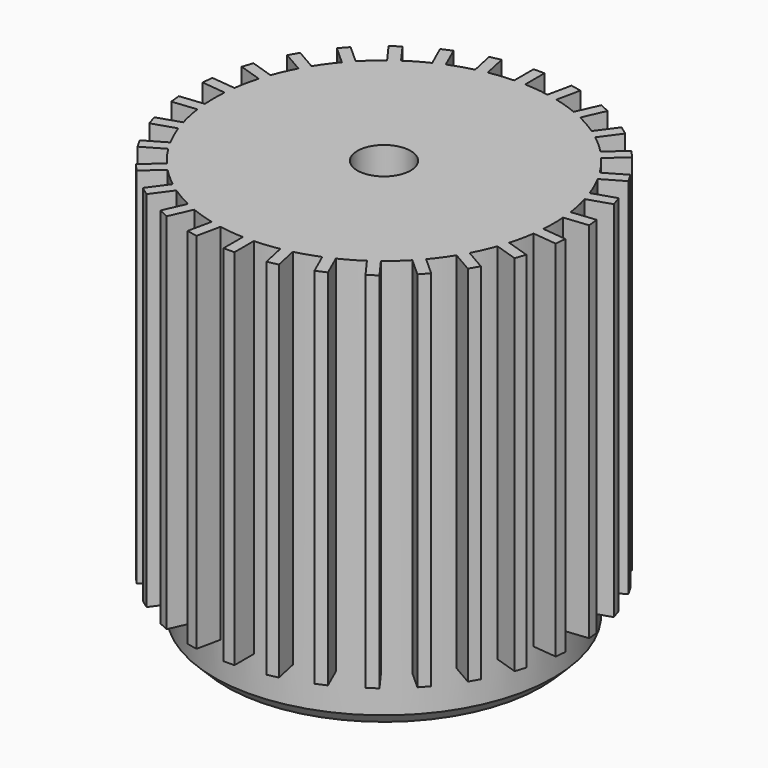
from build123d import *

# Parameters (mm, degrees)
F0_R      = 7
F1_DEPTH  = 15
F3_DEPTH  = 15
F4_COUNT  = 30
F6_R      = 7
F7_DEPTH  = 2
F8_SIZE   = 0.5
F9_R      = 3.25
F10_DEPTH = 0.6
F12_R     = 1.1
F13_DEPTH = 25


with BuildPart() as f1:
    # F0 (on Top) → F1 (new body)
    with BuildSketch(Plane.XY):
        Circle(F0_R)
    extrude(amount=F1_DEPTH)


with BuildPart() as f3:
    # F2 (on Top) → F3 (new body)
    with BuildSketch(Plane.XY):
        with BuildLine():
            ThreePointArc((-0.225, 6.996383), (0, 7), (0.225, 6.996383))
            Line((0.225, 6.996383), (0.225, 7.996383))
            Line((0.225, 7.996383), (-0.225, 7.996383))
            Line((-0.225, 7.996383), (-0.225, 6.996383))
        make_face()
    extrude(amount=F3_DEPTH)


with BuildPart() as f4_1:
    # F4: instance of F3
    add(f3.part.rotate(Axis((0, 0, 15), (0, 0, 1)), 1 * 360 / F4_COUNT))


with BuildPart() as f4_2:
    # F4: instance of F3
    add(f3.part.rotate(Axis((0, 0, 15), (0, 0, 1)), 2 * 360 / F4_COUNT))


with BuildPart() as f4_3:
    # F4: instance of F3
    add(f3.part.rotate(Axis((0, 0, 15), (0, 0, 1)), 3 * 360 / F4_COUNT))


with BuildPart() as f4_4:
    # F4: instance of F3
    add(f3.part.rotate(Axis((0, 0, 15), (0, 0, 1)), 4 * 360 / F4_COUNT))


with BuildPart() as f4_5:
    # F4: instance of F3
    add(f3.part.rotate(Axis((0, 0, 15), (0, 0, 1)), 5 * 360 / F4_COUNT))


with BuildPart() as f4_6:
    # F4: instance of F3
    add(f3.part.rotate(Axis((0, 0, 15), (0, 0, 1)), 6 * 360 / F4_COUNT))


with BuildPart() as f4_7:
    # F4: instance of F3
    add(f3.part.rotate(Axis((0, 0, 15), (0, 0, 1)), 7 * 360 / F4_COUNT))


with BuildPart() as f4_8:
    # F4: instance of F3
    add(f3.part.rotate(Axis((0, 0, 15), (0, 0, 1)), 8 * 360 / F4_COUNT))


with BuildPart() as f4_9:
    # F4: instance of F3
    add(f3.part.rotate(Axis((0, 0, 15), (0, 0, 1)), 9 * 360 / F4_COUNT))


with BuildPart() as f4_10:
    # F4: instance of F3
    add(f3.part.rotate(Axis((0, 0, 15), (0, 0, 1)), 10 * 360 / F4_COUNT))


with BuildPart() as f4_11:
    # F4: instance of F3
    add(f3.part.rotate(Axis((0, 0, 15), (0, 0, 1)), 11 * 360 / F4_COUNT))


with BuildPart() as f4_12:
    # F4: instance of F3
    add(f3.part.rotate(Axis((0, 0, 15), (0, 0, 1)), 12 * 360 / F4_COUNT))


with BuildPart() as f4_13:
    # F4: instance of F3
    add(f3.part.rotate(Axis((0, 0, 15), (0, 0, 1)), 13 * 360 / F4_COUNT))


with BuildPart() as f4_14:
    # F4: instance of F3
    add(f3.part.rotate(Axis((0, 0, 15), (0, 0, 1)), 14 * 360 / F4_COUNT))


with BuildPart() as f4_15:
    # F4: instance of F3
    add(f3.part.rotate(Axis((0, 0, 15), (0, 0, 1)), 15 * 360 / F4_COUNT))


with BuildPart() as f4_16:
    # F4: instance of F3
    add(f3.part.rotate(Axis((0, 0, 15), (0, 0, 1)), 16 * 360 / F4_COUNT))


with BuildPart() as f4_17:
    # F4: instance of F3
    add(f3.part.rotate(Axis((0, 0, 15), (0, 0, 1)), 17 * 360 / F4_COUNT))


with BuildPart() as f4_18:
    # F4: instance of F3
    add(f3.part.rotate(Axis((0, 0, 15), (0, 0, 1)), 18 * 360 / F4_COUNT))


with BuildPart() as f4_19:
    # F4: instance of F3
    add(f3.part.rotate(Axis((0, 0, 15), (0, 0, 1)), 19 * 360 / F4_COUNT))


with BuildPart() as f4_20:
    # F4: instance of F3
    add(f3.part.rotate(Axis((0, 0, 15), (0, 0, 1)), 20 * 360 / F4_COUNT))


with BuildPart() as f4_21:
    # F4: instance of F3
    add(f3.part.rotate(Axis((0, 0, 15), (0, 0, 1)), 21 * 360 / F4_COUNT))


with BuildPart() as f4_22:
    # F4: instance of F3
    add(f3.part.rotate(Axis((0, 0, 15), (0, 0, 1)), 22 * 360 / F4_COUNT))


with BuildPart() as f4_23:
    # F4: instance of F3
    add(f3.part.rotate(Axis((0, 0, 15), (0, 0, 1)), 23 * 360 / F4_COUNT))


with BuildPart() as f4_24:
    # F4: instance of F3
    add(f3.part.rotate(Axis((0, 0, 15), (0, 0, 1)), 24 * 360 / F4_COUNT))


with BuildPart() as f4_25:
    # F4: instance of F3
    add(f3.part.rotate(Axis((0, 0, 15), (0, 0, 1)), 25 * 360 / F4_COUNT))


with BuildPart() as f4_26:
    # F4: instance of F3
    add(f3.part.rotate(Axis((0, 0, 15), (0, 0, 1)), 26 * 360 / F4_COUNT))


with BuildPart() as f4_27:
    # F4: instance of F3
    add(f3.part.rotate(Axis((0, 0, 15), (0, 0, 1)), 27 * 360 / F4_COUNT))


with BuildPart() as f4_28:
    # F4: instance of F3
    add(f3.part.rotate(Axis((0, 0, 15), (0, 0, 1)), 28 * 360 / F4_COUNT))


with BuildPart() as f4_29:
    # F4: instance of F3
    add(f3.part.rotate(Axis((0, 0, 15), (0, 0, 1)), 29 * 360 / F4_COUNT))


with BuildPart() as f4_4_1:
    add(f4_4.part)

    # F5: union F4_2, F4_11, F4_1, F4_3, F4_6, F3, F4_13, F4_8, F4_7, F4_5, F4_9, F1, F4_10, F4_14, F4_12, F4_18, F4_17, F4_16, F4_15, F4_19, F4_20, F4_21, F4_22, F4_23, F4_24, F4_25, F4_26, F4_27, F4_28, F4_29
    add(f4_2.part)
    add(f4_11.part)
    add(f4_1.part)
    add(f4_3.part)
    add(f4_6.part)
    add(f3.part)
    add(f4_13.part)
    add(f4_8.part)
    add(f4_7.part)
    add(f4_5.part)
    add(f4_9.part)
    add(f1.part)
    add(f4_10.part)
    add(f4_14.part)
    add(f4_12.part)
    add(f4_18.part)
    add(f4_17.part)
    add(f4_16.part)
    add(f4_15.part)
    add(f4_19.part)
    add(f4_20.part)
    add(f4_21.part)
    add(f4_22.part)
    add(f4_23.part)
    add(f4_24.part)
    add(f4_25.part)
    add(f4_26.part)
    add(f4_27.part)
    add(f4_28.part)
    add(f4_29.part)

    # F6 (on Top) → F7 (join)
    with BuildSketch(Plane.XY):
        Circle(F6_R)
    extrude(amount=-F7_DEPTH)

    # F8
    f8_edges = [f4_4_1.edges().sort_by_distance(p)[0] for p in [
        (-7, 0, -2),
    ]]
    chamfer(f8_edges, length=F8_SIZE)

    # F9 (on face) → F10 (cut)
    with BuildSketch(Plane(origin=(0, 0, -2), x_dir=(1, 0, 0), z_dir=(0, 0, -1))):
        Circle(F9_R)
    extrude(amount=-F10_DEPTH, mode=Mode.SUBTRACT)

    # F12 (on face) → F13 (cut, symmetric)
    with BuildSketch(Plane.XY.offset(15)):
        Circle(F12_R)
    extrude(amount=F13_DEPTH, both=True, mode=Mode.SUBTRACT)


solid = f4_4_1.part
